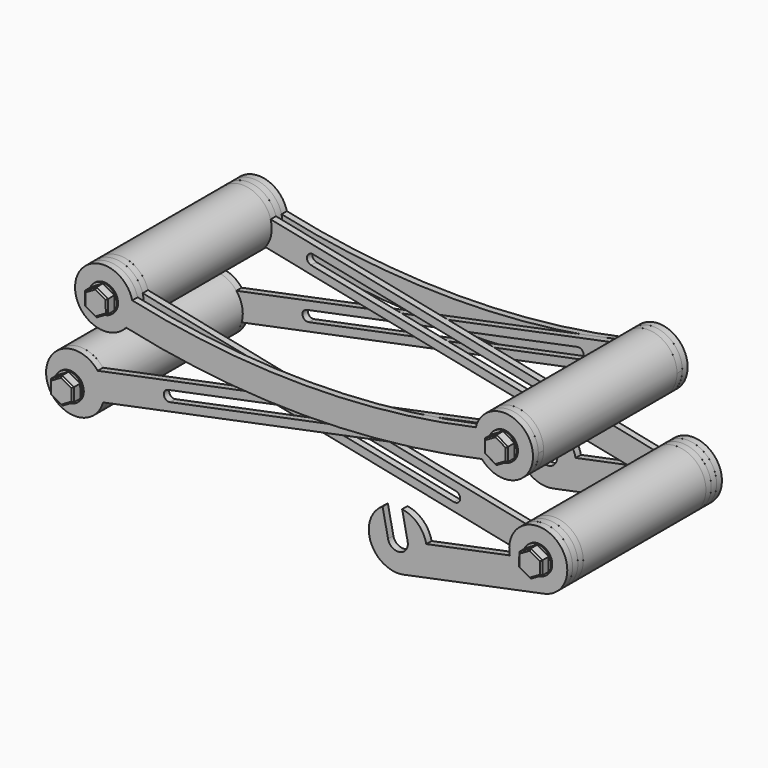
from build123d import *

# Parameters (mm, degrees)
F2_R       = 1
F3_DEPTH   = 1
F1_R       = 1
F4_DEPTH   = 1
F5_R       = 4.3567771922
F5_R_2     = 1
F6_DEPTH   = 25
F7_R       = 4.3567771922
F7_R_2     = 1
F8_DEPTH   = 1
F11_DEPTH  = 2
F14_START  = 1
F9_R       = 4.3567771922
F9_R_2     = 1
F14_DEPTH  = 23
F17_R      = 4.3567771922
F17_R_2    = 1
F18_DEPTH  = 23
F19_R      = 4.3567771922
F19_R_2    = 1
F20_DEPTH  = 1
F22_R      = 1
F23_DEPTH  = 1
F26_START  = 0.2
F26_DEPTH  = 1.4
F27_SIZE   = 0.2
F27_2_SIZE = 0.2
F29_R      = 0.7
F30_DEPTH  = 25
F31_SIZE   = 0.2
F31_2_SIZE = 0.2
F32_R      = 2.1
F32_R_2    = 0.75
F33_DEPTH  = 0.2
F36_R      = 1.1006899356
F36_R_2    = 0.7
F37_DEPTH  = 1.2


with BuildPart() as f3:
    # F2 (on Front) → F3 (new body)
    with BuildSketch(Plane.XZ):
        with BuildLine():
            ThreePointArc((26.6088233382, 37.2647800178), (31.4503286468, 35.8917090757), (34.3567771922, 40))
            ThreePointArc((34.3567771922, 40), (30.5974477415, 44.3156185766), (25.8070796167, 41.1836072665))
            ThreePointArc((25.8070796167, 41.1836072665), (25.7316357057, 39.12674531), (26.6088233382, 37.2647800178))
        make_face()
        with Locations((30, 40)):
            Circle(F2_R, mode=Mode.SUBTRACT)
        with BuildLine():
            ThreePointArc((26.6088233382, 37.2647800178), (25.7316357057, 39.12674531), (25.8070796167, 41.1836072665))
            Line((25.8070796167, 41.1836072665), (-31.7519863934, 29.4077322751))
            ThreePointArc((-31.7519863934, 29.4077322751), (-39.4115273494, 25.7992576028), (-30.9502426719, 25.4889050264))
            Line((-30.9502426719, 25.4889050264), (26.6088233382, 37.2647800178))
        make_face()
        with Locations((-35.1431630552, 26.6725122929)):
            Circle(F2_R, mode=Mode.SUBTRACT)
    extrude(amount=F3_DEPTH)

    # F10 (on face) → F11 (cut)
    with BuildSketch(Plane.XZ.offset(1)):
        with BuildLine():
            Line((19.4239411503, 38.6336892843), (-21.2098641457, 30.3205138845))
            ThreePointArc((-21.2098641457, 30.3205138845), (-21.8186603888, 29.3985411984), (-20.8966877027, 28.7897449553))
            Line((-20.8966877027, 28.7897449553), (19.7371175932, 37.1029203551))
            ThreePointArc((19.7371175932, 37.1029203551), (20.3459138364, 38.0248930412), (19.4239411503, 38.6336892843))
        make_face()
    extrude(amount=-F11_DEPTH, mode=Mode.SUBTRACT)


with BuildPart() as f4:
    # F1 (on Front) → F4 (new body)
    with BuildSketch(Plane.XZ):
        with BuildLine():
            ThreePointArc((25.7732373291, 41.0564018298), (0, 38.2621533492), (-25.7732373291, 41.0564018298))
            ThreePointArc((-25.7732373291, 41.0564018298), (-34.2399708877, 41.0020750338), (-26.6933675701, 37.1631550138))
            ThreePointArc((-26.6933675701, 37.1631550138), (0, 34.2621533492), (26.6933675701, 37.1631550138))
            ThreePointArc((26.6933675701, 37.1631550138), (34.2399708877, 41.0020750338), (25.7732373291, 41.0564018298))
        make_face()
        with Locations((-30, 40)):
            Circle(F1_R, mode=Mode.SUBTRACT)
        with Locations((30, 40)):
            Circle(F1_R, mode=Mode.SUBTRACT)
    extrude(amount=-F4_DEPTH)


with BuildPart() as f6:
    # F5 (on face) → F6 (new body)
    with BuildSketch(Plane.XZ.offset(1)):
        with Locations((30, 40)):
            Circle(F5_R)
        with Locations((30, 40)):
            Circle(F5_R_2, mode=Mode.SUBTRACT)
    extrude(amount=F6_DEPTH)


with BuildPart() as f6b:
    # F5 (on face) → F6, piece 2 (new body)
    with BuildSketch(Plane.XZ.offset(1)):
        with Locations((-35.1431630552, 26.6725122929)):
            Circle(F5_R)
        with Locations((-35.1431630552, 26.6725122929)):
            Circle(F5_R_2, mode=Mode.SUBTRACT)
    extrude(amount=F6_DEPTH)


with BuildPart() as f8:
    # F7 (on face) → F8 (new body)
    with BuildSketch(Plane.XZ):
        with Locations((-30, 40)):
            Circle(F7_R)
        with Locations((-30, 40)):
            Circle(F7_R_2, mode=Mode.SUBTRACT)
    extrude(amount=F8_DEPTH)


with BuildPart() as f12_1:
    # F12: instance of F3
    add(f3.part.mirror(Plane.YZ))


with BuildPart() as f12_1_1:
    # F13: moved
    add(f12_1.part.moved(Location((0, -1, 0))))


with BuildPart() as f14:
    # F9 (on face) → F14 (new body)
    with BuildSketch(Plane.XZ.offset(1).offset(F14_START)):
        with Locations((-30, 40)):
            Circle(F9_R)
        with Locations((-30, 40)):
            Circle(F9_R_2, mode=Mode.SUBTRACT)
    extrude(amount=F14_DEPTH)


with BuildPart() as f16_1:
    # F16: instance of F12_1
    add(f12_1_1.part.mirror(Plane.XZ.offset(13.5)))


with BuildPart() as f16_2:
    # F16: instance of F4
    add(f4.part.mirror(Plane.XZ.offset(13.5)))


with BuildPart() as f16_3:
    # F16: instance of F8
    add(f8.part.mirror(Plane.XZ.offset(13.5)))


with BuildPart() as f16_4:
    # F16: instance of F3
    add(f3.part.mirror(Plane.XZ.offset(13.5)))


with BuildPart() as f18:
    # F17 (on face) → F18 (new body, through all)
    with BuildSketch(Plane.XZ.offset(2)):
        with Locations((35.1431630552, 26.6725122929)):
            Circle(F17_R)
        with Locations((35.1431630552, 26.6725122929)):
            Circle(F17_R_2, mode=Mode.SUBTRACT)
    extrude(amount=F18_DEPTH)


with BuildPart() as f20:
    # F19 (on face) → F20 (new body)
    with BuildSketch(Plane(origin=(0, -1, 0), x_dir=(-1, 0, 0), z_dir=(0, 1, 0))):
        with Locations((-35.1431630552, 26.6725122929)):
            Circle(F19_R)
        with Locations((-35.1431630552, 26.6725122929)):
            Circle(F19_R_2, mode=Mode.SUBTRACT)
    extrude(amount=F20_DEPTH)


with BuildPart() as f21_1:
    # F21: instance of F20
    add(f20.part.mirror(Plane.XZ.offset(13.5)))


with BuildPart() as f23:
    # F22 (on face) → F23 (new body)
    with BuildSketch(Plane.XZ.offset(27)):
        with BuildLine():
            Line((14.9555576092, 18.0719817508), (36.020962621, 22.4050803456))
            ThreePointArc((36.020962621, 22.4050803456), (37.5399950978, 30.3107403866), (30.8757311079, 25.794712727))
            Line((30.8757311079, 25.794712727), (18.3451899906, 23.2172132639))
            ThreePointArc((18.3451899906, 23.2172132639), (17.0737746954, 25.5025437496), (14.7228638017, 26.6481659609))
            Line((14.7228638017, 26.6481659609), (15.5469972628, 22.6416323544))
            ThreePointArc((15.5469972628, 22.6416323544), (14.3799766997, 20.8701744787), (12.608518824, 22.0371950418))
            Line((12.608518824, 22.0371950418), (11.7843853629, 26.0437286483))
            ThreePointArc((11.7843853629, 26.0437286483), (10.0295301644, 20.729022894), (14.9555576092, 18.0719817508))
        make_face()
        with Locations((35.1431630552, 26.6725122929)):
            Circle(F22_R, mode=Mode.SUBTRACT)
    extrude(amount=F23_DEPTH)


with BuildPart() as f24_1:
    # F24: instance of F23
    add(f23.part.mirror(Plane.XZ.offset(13.5)))


with BuildPart() as f26:
    # F25 (on face) → F26 (new body)
    with BuildSketch(Plane.XZ.offset(28).offset(F26_START)):
        Polygon((31.7354822376, 40.9940328983), (30.0068833767, 41.9999881547), (28.271401139, 41.0059552564), (28.2645177624, 39.0059671017), (29.9931166233, 38.0000118453), (31.728598861, 38.9940447436), align=None)
    extrude(amount=F26_DEPTH)

    # F27
    f27_edges = [f26.edges().sort_by_distance(p)[0] for p in [
        (30.860858, -29.6, 38.497028),
        (31.732041, -29.6, 39.994039),
        (30.871183, -29.6, 41.497011),
        (29.139142, -29.6, 41.502972),
        (28.267959, -29.6, 40.005961),
        (29.128817, -29.6, 38.502989),
    ]]
    chamfer(f27_edges, length=F27_SIZE)


with BuildPart() as f26b:
    # F25 (on face) → F26, piece 2 (new body)
    with BuildSketch(Plane.XZ.offset(28).offset(F26_START)):
        Polygon((36.8786452928, 27.6665451912), (35.1500464318, 28.6725004476), (33.4145641942, 27.6784675493), (33.4076808176, 25.6784793945), (35.1362796785, 24.6725241381), (36.8717619161, 25.6665570364), align=None)
    extrude(amount=F26_DEPTH)

    # F27#2
    f27_2_edges = [f26b.edges().sort_by_distance(p)[0] for p in [
        (36.014346, -29.6, 28.169523),
        (34.282305, -29.6, 28.175484),
        (33.411123, -29.6, 26.678473),
        (34.27198, -29.6, 25.175502),
        (36.004021, -29.6, 25.169541),
        (36.875204, -29.6, 26.666551),
    ]]
    chamfer(f27_2_edges, length=F27_2_SIZE)


with BuildPart() as f28_1:
    # F28: instance of F26
    add(f26.part.mirror(Plane.XZ.offset(13.5)))


with BuildPart() as f28_2:
    # F28: instance of F26b
    add(f26b.part.mirror(Plane.XZ.offset(13.5)))


with BuildPart() as f30_tool:
    # F29 (on face) → F30 (new body)
    with BuildSketch(Plane(origin=(0, 1, 0), x_dir=(-1, 0, 0), z_dir=(0, 1, 0))):
        with Locations((-30, 40)):
            Circle(F29_R)
        with Locations((-35.1431630552, 26.6725122929)):
            Circle(F29_R)
    extrude(amount=F30_DEPTH)


with BuildPart() as f28_1_1:
    add(f28_1.part)

    # F30: cut by f30_tool
    add(f30_tool.part, mode=Mode.SUBTRACT)

    # F31
    f31_edges = [f28_1_1.edges().sort_by_distance(p)[0] for p in [
        (30.7, 2.6, 40),
    ]]
    chamfer(f31_edges, length=F31_SIZE)


with BuildPart() as f28_2_1:
    add(f28_2.part)

    # F30: cut by f30_tool
    add(f30_tool.part, mode=Mode.SUBTRACT)

    # F31#2
    f31_2_edges = [f28_2_1.edges().sort_by_distance(p)[0] for p in [
        (35.843163, 2.6, 26.672512),
    ]]
    chamfer(f31_2_edges, length=F31_2_SIZE)


with BuildPart() as f33:
    # F32 (on face) → F33 (new body, through all)
    with BuildSketch(Plane.XZ.offset(28)):
        with Locations((30, 40)):
            Circle(F32_R)
        with Locations((30, 40)):
            Circle(F32_R_2, mode=Mode.SUBTRACT)
    extrude(amount=F33_DEPTH)


with BuildPart() as f33b:
    # F32 (on face) → F33, piece 2 (new body, through all)
    with BuildSketch(Plane.XZ.offset(28)):
        with Locations((35.1431630552, 26.6725122929)):
            Circle(F32_R)
        with Locations((35.1431630552, 26.6725122929)):
            Circle(F32_R_2, mode=Mode.SUBTRACT)
    extrude(amount=F33_DEPTH)


with BuildPart() as f34_1:
    # F34: instance of F33
    add(f33.part.mirror(Plane.XZ.offset(13.5)))


with BuildPart() as f34_2:
    # F34: instance of F33b
    add(f33b.part.mirror(Plane.XZ.offset(13.5)))


with BuildPart() as f35_1:
    # F35: instance of F26
    add(f26.part.mirror(Plane.YZ))


with BuildPart() as f35_2:
    # F35: instance of F33
    add(f33.part.mirror(Plane.YZ))


with BuildPart() as f35_3:
    # F35: instance of F26b
    add(f26b.part.mirror(Plane.YZ))


with BuildPart() as f35_4:
    # F35: instance of F33b
    add(f33b.part.mirror(Plane.YZ))


with BuildPart() as f35_5:
    # F35: instance of F34_2
    add(f34_2.part.mirror(Plane.YZ))


with BuildPart() as f35_6:
    # F35: instance of F28_2
    add(f28_2_1.part.mirror(Plane.YZ))


with BuildPart() as f35_7:
    # F35: instance of F28_1
    add(f28_1_1.part.mirror(Plane.YZ))


with BuildPart() as f35_8:
    # F35: instance of F34_1
    add(f34_1.part.mirror(Plane.YZ))


with BuildPart() as f37:
    # F36 (on face) → F37 (new body, through all)
    with BuildSketch(Plane(origin=(0, 0, 0), x_dir=(-1, 0, 0), z_dir=(0, 1, 0))):
        with Locations((35.1431630552, 26.6725122929)):
            Circle(F36_R)
        with Locations((35.1431630552, 26.6725122929)):
            Circle(F36_R_2, mode=Mode.SUBTRACT)
    extrude(amount=F37_DEPTH)


with BuildPart() as f38_1:
    # F38: instance of F37
    add(f37.part.mirror(Plane.XZ.offset(13.5)))


solid = Compound([f3.part, f4.part, f6.part, f6b.part, f8.part, f12_1_1.part, f14.part, f16_1.part, f16_2.part, f16_3.part, f16_4.part, f18.part, f20.part, f21_1.part, f23.part, f24_1.part, f26.part, f26b.part, f28_1_1.part, f28_2_1.part, f33.part, f33b.part, f34_1.part, f34_2.part, f35_1.part, f35_2.part, f35_3.part, f35_4.part, f35_5.part, f35_6.part, f35_7.part, f35_8.part, f37.part, f38_1.part])
